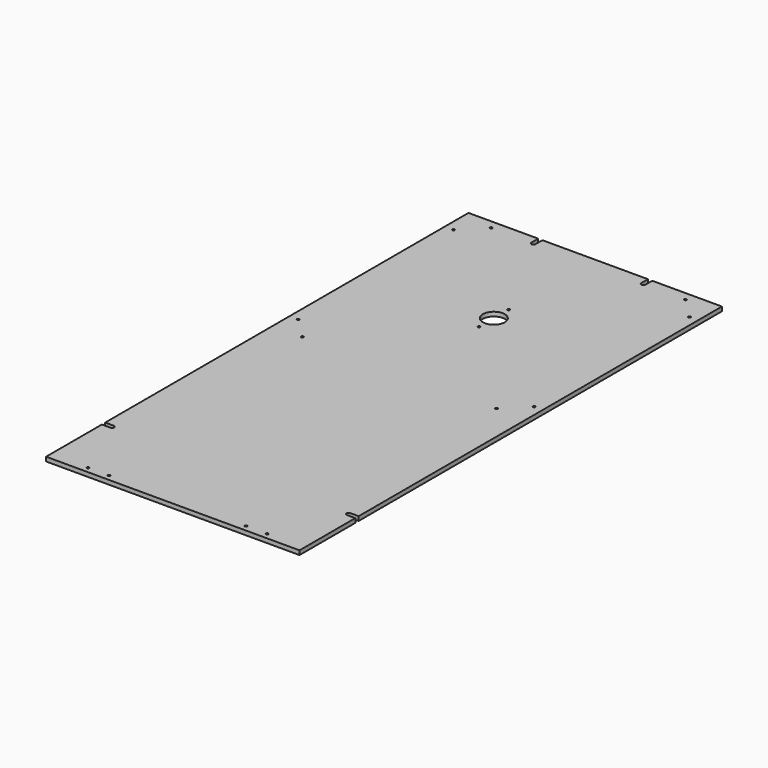
from build123d import *

# Parameters (mm, degrees)
F0_R     = 1.4
F0_R_2   = 13
F1_DEPTH = 5


with BuildPart() as f1:
    # F0 (on Top) → F1 (new body)
    with BuildSketch(Plane.XY):
        with BuildLine():
            Line((82.5, 625), (0, 625))
            Line((0, 625), (0, 87.5))
            Line((0, 87.5), (10, 87.5))
            ThreePointArc((10, 87.5), (12.5, 85), (10, 82.5))
            Line((10, 82.5), (0, 82.5))
            Line((0, 82.5), (0, 0))
            Line((0, 0), (300, 0))
            Line((300, 0), (300, 82.5))
            Line((300, 82.5), (290, 82.5))
            ThreePointArc((290, 82.5), (287.5, 85), (290, 87.5))
            Line((290, 87.5), (300, 87.5))
            Line((300, 87.5), (300, 625))
            Line((300, 625), (217.5, 625))
            Line((217.5, 625), (217.5, 615))
            ThreePointArc((217.5, 615), (215, 612.5), (212.5, 615))
            Line((212.5, 615), (212.5, 625))
            Line((212.5, 625), (87.5, 625))
            Line((87.5, 625), (87.5, 615))
            ThreePointArc((87.5, 615), (85, 612.5), (82.5, 615))
            Line((82.5, 615), (82.5, 625))
        make_face()
        with Locations((44, 7)):
            Circle(F0_R, mode=Mode.SUBTRACT)
        with Locations((69, 7)):
            Circle(F0_R, mode=Mode.SUBTRACT)
        with Locations((231, 7)):
            Circle(F0_R, mode=Mode.SUBTRACT)
        with Locations((256, 7)):
            Circle(F0_R, mode=Mode.SUBTRACT)
        with Locations((35.095148, 335.346411)):
            Circle(F0_R, mode=Mode.SUBTRACT)
        with Locations((10.346411, 360.095148)):
            Circle(F0_R, mode=Mode.SUBTRACT)
        with Locations((10.346411, 589.904852)):
            Circle(F0_R, mode=Mode.SUBTRACT)
        with Locations((35.095148, 614.653589)):
            Circle(F0_R, mode=Mode.SUBTRACT)
        with Locations((150, 453)):
            Circle(F0_R, mode=Mode.SUBTRACT)
        with Locations((264.904852, 335.346411)):
            Circle(F0_R, mode=Mode.SUBTRACT)
        with Locations((289.653589, 360.095148)):
            Circle(F0_R, mode=Mode.SUBTRACT)
        with Locations((150, 475)):
            Circle(F0_R_2, mode=Mode.SUBTRACT)
        with Locations((150, 497)):
            Circle(F0_R, mode=Mode.SUBTRACT)
        with Locations((264.904852, 614.653589)):
            Circle(F0_R, mode=Mode.SUBTRACT)
        with Locations((289.653589, 589.904852)):
            Circle(F0_R, mode=Mode.SUBTRACT)
    extrude(amount=F1_DEPTH)


solid = f1.part
